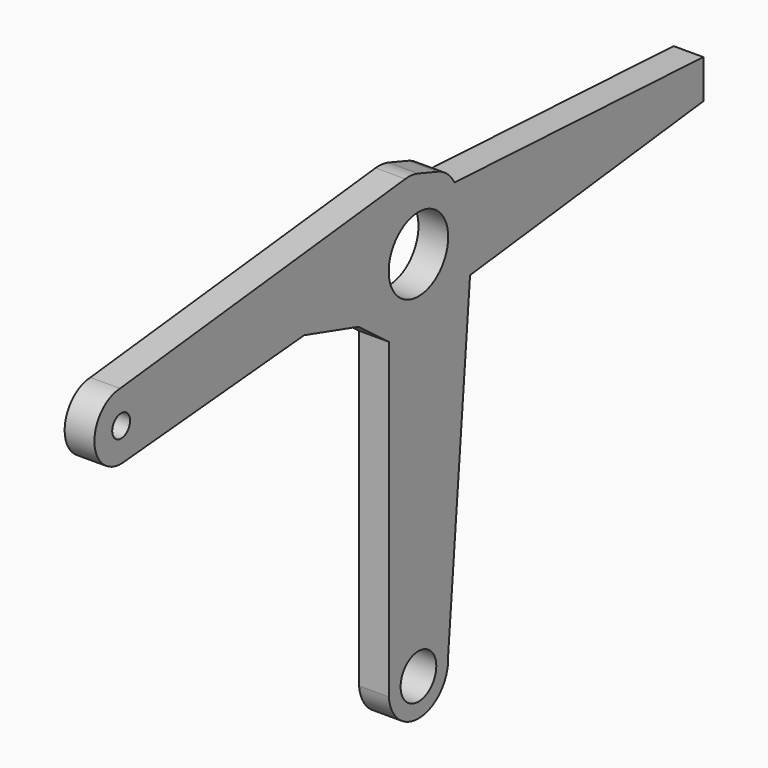
from build123d import *

# Parameters (mm, degrees)
F0_R     = 3
F0_R_2   = 1.5
F0_R_3   = 5
F1_DEPTH = 4


with BuildPart() as f1:
    # F0 (on Right) → F1 (new body)
    with BuildSketch(Plane.YZ):
        with BuildLine():
            Line((-2.213923, 9.815771), (-50.172412, 4.496696))
            ThreePointArc((-50.172412, 4.496696), (-54.497093, -0.161719), (-49.848975, -4.497465))
            Line((-49.848975, -4.497465), (-19.228159, -1.781642))
            Line((-19.228159, -1.781642), (-10.071731, -4.497465))
            Line((-10.071731, -4.497465), (-4.982847, -8.347222))
            Line((-4.982847, -8.347222), (-4.982847, -50.413808))
            ThreePointArc((-4.982847, -50.413808), (-0.389649, -54.984794), (4.858025, -51.183044))
            Line((4.858025, -51.183044), (4.987747, -49.650171))
            Line((4.987747, -49.650171), (8.680819, -6.010615))
            Line((8.680819, -6.010615), (9.067407, -1.442462))
            ThreePointArc((9.067407, -1.442462), (8.988122, -0.04027), (8.522012, 1.284557))
            Line((8.522012, 1.284557), (6.057092, 6.02837))
            ThreePointArc((6.057092, 6.02837), (4.881819, 7.512762), (3.238884, 8.453747))
            Line((3.238884, 8.453747), (-0.044164, 9.577011))
            ThreePointArc((-0.044164, 9.577011), (-1.115855, 9.816243), (-2.213923, 9.815771))
        make_face()
        with Locations((0, -50)):
            Circle(F0_R, mode=Mode.SUBTRACT)
        with Locations((-50, 0)):
            Circle(F0_R_2, mode=Mode.SUBTRACT)
        Circle(F0_R_3, mode=Mode.SUBTRACT)
        with BuildLine():
            Line((47.908556, 3.875873), (6.057092, 6.02837))
            Line((6.057092, 6.02837), (8.522012, 1.284557))
            ThreePointArc((8.522012, 1.284557), (8.988122, -0.04027), (9.067407, -1.442462))
            Line((9.067407, -1.442462), (8.680819, -6.010615))
            Line((8.680819, -6.010615), (47.908556, -1.356372))
            Line((47.908556, -1.356372), (47.908556, 3.875873))
        make_face()
        with BuildLine():
            Line((4.987747, -49.650171), (4.858025, -51.183044))
            ThreePointArc((4.858025, -51.183044), (4.982191, -50.421626), (4.987747, -49.650171))
        make_face()
    extrude(amount=F1_DEPTH)


solid = f1.part
